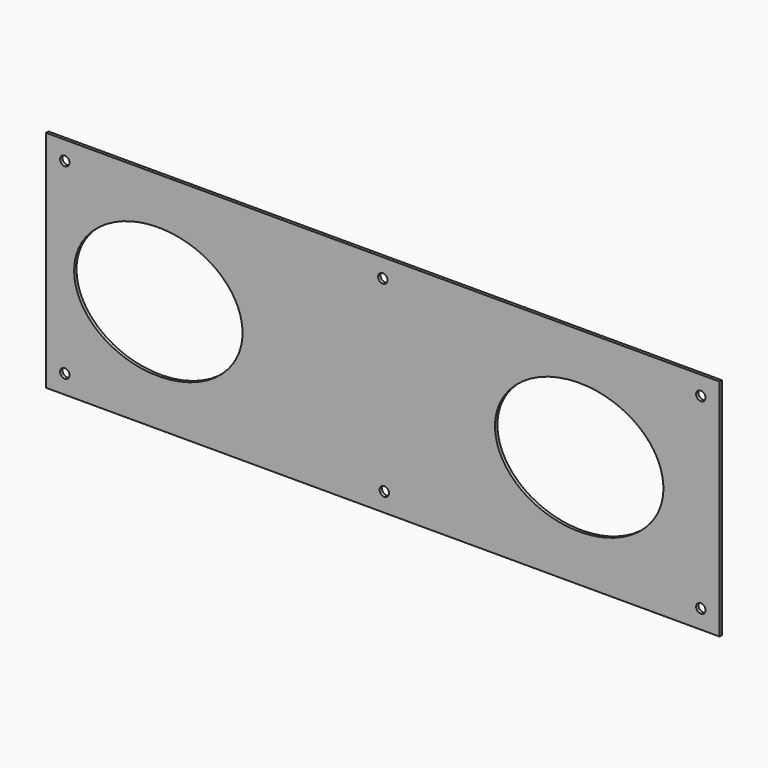
from build123d import *

# Parameters (mm, degrees)
F0_W     = 457.2
F0_H     = 152.4
F0_R     = 3.175
F1_DEPTH = 2.032


with BuildPart() as f1:
    # F0 (on Front) → F1 (new body)
    with BuildSketch(Plane.XZ):
        with Locations((-106.514064, 41.927013)):
            Rectangle(F0_W, F0_H)
        with Locations((-322.414064, -21.572987)):
            Circle(F0_R, mode=Mode.SUBTRACT)
        with Locations((-105.516569, -21.572987)):
            Circle(F0_R, mode=Mode.SUBTRACT)
        with Locations((109.385936, -21.572987)):
            Circle(F0_R, mode=Mode.SUBTRACT)
        with BuildLine():
            add(Edge.make_bspline(
                [(-201.764064, 41.927013), (-201.764064, 118.916671), (-287.489064, 80.421842), (-373.214064, 41.927013), (-287.489064, 3.432183), (-201.764064, -35.062646), (-201.764064, 41.927013)],
                knots=[0, 0, 0, 2.094395, 2.094395, 4.18879, 4.18879, 6.283185, 6.283185, 6.283185], degree=2, weights=[1, 0.5, 1, 0.5, 1, 0.5, 1]))
        make_face(mode=Mode.SUBTRACT)
        with Locations((-322.414064, 105.427013)):
            Circle(F0_R, mode=Mode.SUBTRACT)
        with BuildLine():
            add(Edge.make_bspline(
                [(-30.314064, 41.927013), (-30.314064, -35.062646), (55.410936, 3.432183), (141.135936, 41.927013), (55.410936, 80.421842), (-30.314064, 118.916671), (-30.314064, 41.927013)],
                knots=[0, 0, 0, 2.094395, 2.094395, 4.18879, 4.18879, 6.283185, 6.283185, 6.283185], degree=2, weights=[1, 0.5, 1, 0.5, 1, 0.5, 1]))
        make_face(mode=Mode.SUBTRACT)
        with Locations((-106.514064, 105.427013)):
            Circle(F0_R, mode=Mode.SUBTRACT)
        with Locations((109.385936, 105.427013)):
            Circle(F0_R, mode=Mode.SUBTRACT)
    extrude(amount=-F1_DEPTH)


solid = f1.part
